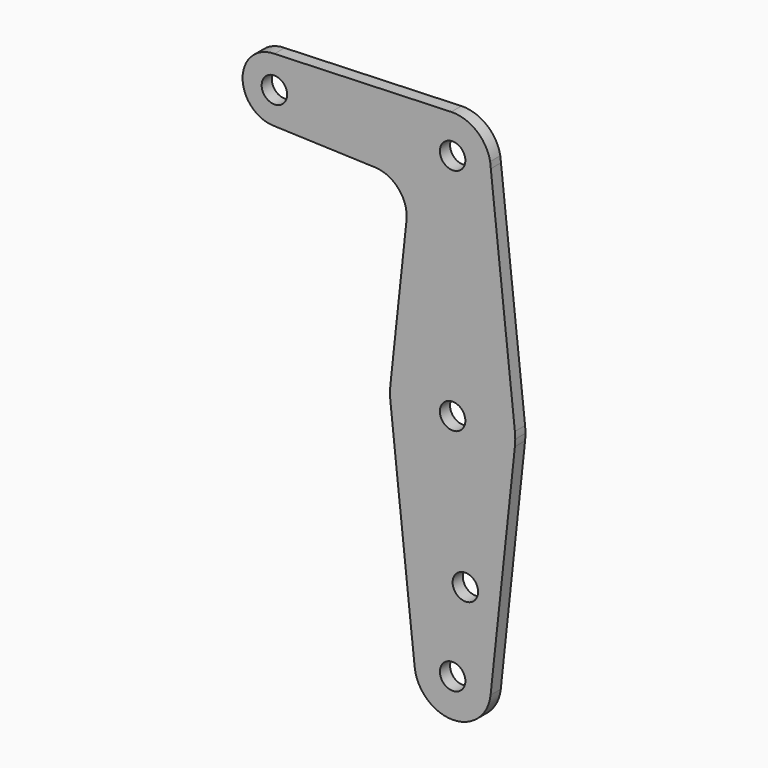
from build123d import *

# Parameters (mm, degrees)
F0_R     = 3.175
F1_DEPTH = 3.175


with BuildPart() as f1:
    # F0 (on Front) → F1 (new body)
    with BuildSketch(Plane.XZ):
        with BuildLine():
            ThreePointArc((0, -7.9375), (5.61266, -5.61266), (7.9375, 0))
            ThreePointArc((7.9375, 0), (5.61266, 5.61266), (0, 7.9375))
            ThreePointArc((0, 7.9375), (-7.9375, 0), (0, -7.9375))
        make_face()
        Circle(F0_R, mode=Mode.SUBTRACT)
        with BuildLine():
            ThreePointArc((59.980986, -55.475453), (44.445822, -41.529001), (28.91812, -55.48376))
            ThreePointArc((28.91812, -55.48376), (28.829, -57.15), (28.91812, -58.81624))
            ThreePointArc((28.91812, -58.81624), (44.45, -72.771), (59.98188, -58.81624))
            ThreePointArc((59.98188, -58.81624), (60.048704, -57.984311), (60.071, -57.15))
            ThreePointArc((60.071, -57.15), (60.04848, -56.311518), (59.980986, -55.475453))
        make_face()
        with Locations((44.45, -57.15)):
            Circle(F0_R, mode=Mode.SUBTRACT)
        with BuildLine():
            ThreePointArc((59.980986, -55.475453), (44.445822, -41.529001), (28.91812, -55.48376))
            ThreePointArc((28.91812, -55.48376), (28.829, -57.15), (28.91812, -58.81624))
            ThreePointArc((28.91812, -58.81624), (44.45, -72.771), (59.98188, -58.81624))
            ThreePointArc((59.98188, -58.81624), (60.048704, -57.984311), (60.071, -57.15))
            ThreePointArc((60.071, -57.15), (60.04848, -56.311518), (59.980986, -55.475453))
        make_face()
        with Locations((44.45, -57.15)):
            Circle(F0_R, mode=Mode.SUBTRACT)
        with BuildLine():
            ThreePointArc((53.808394, 1.773721), (50.393401, 7.443226), (44.108729, 9.518884))
            ThreePointArc((44.108729, 9.518884), (37.836566, -6.854788), (53.975, 0))
            ThreePointArc((53.975, 0), (53.9741, 0.130959), (53.971399, 0.261894))
            Line((53.971399, 0.261894), (53.808394, 1.773721))
        make_face()
        with Locations((44.45, 0)):
            Circle(F0_R, mode=Mode.SUBTRACT)
        with BuildLine():
            ThreePointArc((53.975, -114.3), (43.941274, -104.788595), (34.979342, -115.316))
            ThreePointArc((34.979342, -115.316), (44.45, -123.825), (53.920658, -115.316))
            ThreePointArc((53.920658, -115.316), (53.961405, -114.808726), (53.975, -114.3))
        make_face()
        with Locations((44.45, -114.3)):
            Circle(F0_R, mode=Mode.SUBTRACT)
        with BuildLine():
            ThreePointArc((0, -7.9375), (5.61266, -5.61266), (7.9375, 0))
            ThreePointArc((7.9375, 0), (5.61266, 5.61266), (0, 7.9375))
            ThreePointArc((0, 7.9375), (-7.9375, 0), (0, -7.9375))
        make_face()
        Circle(F0_R, mode=Mode.SUBTRACT)
        with BuildLine():
            ThreePointArc((59.98188, -58.81624), (44.45, -72.771), (28.91812, -58.81624))
            Line((28.91812, -58.81624), (34.979342, -115.316))
            ThreePointArc((34.979342, -115.316), (43.941274, -104.788595), (53.975, -114.3))
            ThreePointArc((53.975, -114.3), (53.961405, -114.808726), (53.920658, -115.316))
            Line((53.920658, -115.316), (59.98188, -58.81624))
        make_face()
        with Locations((47.625, -93.6625)):
            Circle(F0_R, mode=Mode.SUBTRACT)
        with BuildLine():
            ThreePointArc((59.980986, -55.475453), (44.445822, -41.529001), (28.91812, -55.48376))
            ThreePointArc((28.91812, -55.48376), (28.829, -57.15), (28.91812, -58.81624))
            ThreePointArc((28.91812, -58.81624), (44.45, -72.771), (59.98188, -58.81624))
            ThreePointArc((59.98188, -58.81624), (60.048704, -57.984311), (60.071, -57.15))
            ThreePointArc((60.071, -57.15), (60.04848, -56.311518), (59.980986, -55.475453))
        make_face()
        with Locations((44.45, -57.15)):
            Circle(F0_R, mode=Mode.SUBTRACT)
        with BuildLine():
            ThreePointArc((0, 7.9375), (5.61266, 5.61266), (7.9375, 0))
            ThreePointArc((7.9375, 0), (5.61266, -5.61266), (0, -7.9375))
            Line((0, -7.9375), (25.099068, -8.837351))
            ThreePointArc((25.099068, -8.837351), (30.996049, -11.659012), (32.950342, -17.897351))
            Line((32.950342, -17.897351), (28.91812, -55.48376))
            ThreePointArc((28.91812, -55.48376), (44.445822, -41.529001), (59.980986, -55.475453))
            Line((59.980986, -55.475453), (53.971399, 0.261894))
            ThreePointArc((53.971399, 0.261894), (53.9741, 0.130959), (53.975, 0))
            ThreePointArc((53.975, 0), (37.836566, -6.854788), (44.108729, 9.518884))
            Line((44.108729, 9.518884), (0, 7.9375))
        make_face()
    extrude(amount=F1_DEPTH)


solid = f1.part
